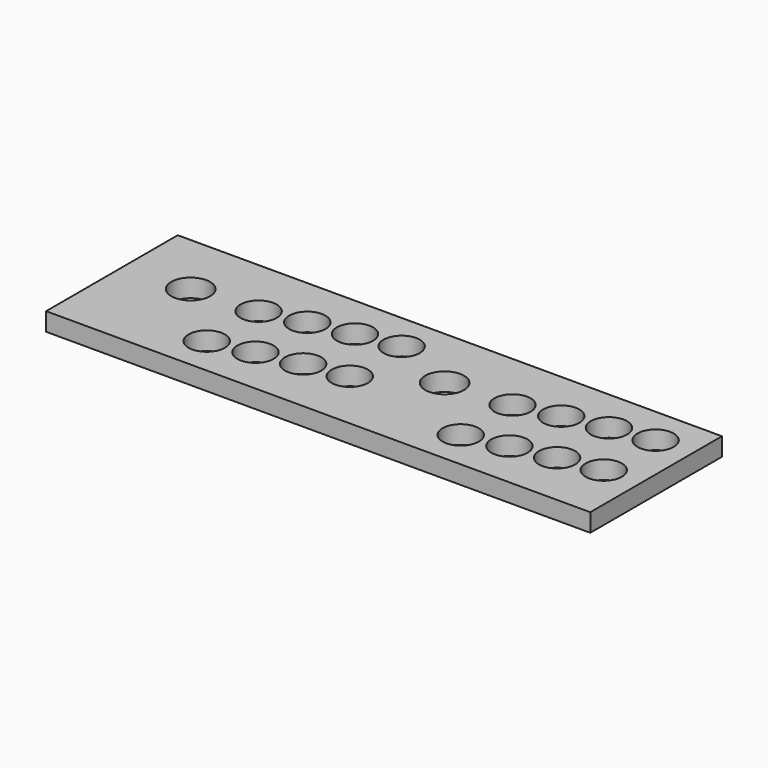
from build123d import *

# Parameters (mm, degrees)
SKETCH_W   = 420
SKETCH_H   = 127
SKETCH_R   = 15
SKETCH_R_2 = 14
PAD_DEPTH  = 14


with BuildPart() as part:
    # Sketch → Pad (new body)
    with BuildSketch(Plane.XY):
        with Locations((210, 63.5)):
            Rectangle(SKETCH_W, SKETCH_H)
        with Locations((50, 77)):
            Circle(SKETCH_R, mode=Mode.SUBTRACT)
        with Locations((100, 80)):
            Circle(SKETCH_R_2, mode=Mode.SUBTRACT)
        with Locations((132, 87)):
            Circle(SKETCH_R_2, mode=Mode.SUBTRACT)
        with Locations((164, 93)):
            Circle(SKETCH_R_2, mode=Mode.SUBTRACT)
        with Locations((196, 98)):
            Circle(SKETCH_R_2, mode=Mode.SUBTRACT)
        with Locations((100, 30)):
            Circle(SKETCH_R_2, mode=Mode.SUBTRACT)
        with Locations((132, 37)):
            Circle(SKETCH_R_2, mode=Mode.SUBTRACT)
        with Locations((164, 43)):
            Circle(SKETCH_R_2, mode=Mode.SUBTRACT)
        with Locations((196, 48)):
            Circle(SKETCH_R_2, mode=Mode.SUBTRACT)
        with Locations((246, 77)):
            Circle(SKETCH_R, mode=Mode.SUBTRACT)
        with Locations((296, 80)):
            Circle(SKETCH_R_2, mode=Mode.SUBTRACT)
        with Locations((328, 87)):
            Circle(SKETCH_R_2, mode=Mode.SUBTRACT)
        with Locations((360, 93)):
            Circle(SKETCH_R_2, mode=Mode.SUBTRACT)
        with Locations((392, 98)):
            Circle(SKETCH_R_2, mode=Mode.SUBTRACT)
        with Locations((392, 48)):
            Circle(SKETCH_R_2, mode=Mode.SUBTRACT)
        with Locations((360, 43)):
            Circle(SKETCH_R_2, mode=Mode.SUBTRACT)
        with Locations((328, 37)):
            Circle(SKETCH_R_2, mode=Mode.SUBTRACT)
        with Locations((296, 30)):
            Circle(SKETCH_R_2, mode=Mode.SUBTRACT)
    extrude(amount=PAD_DEPTH)


solid = part.part
